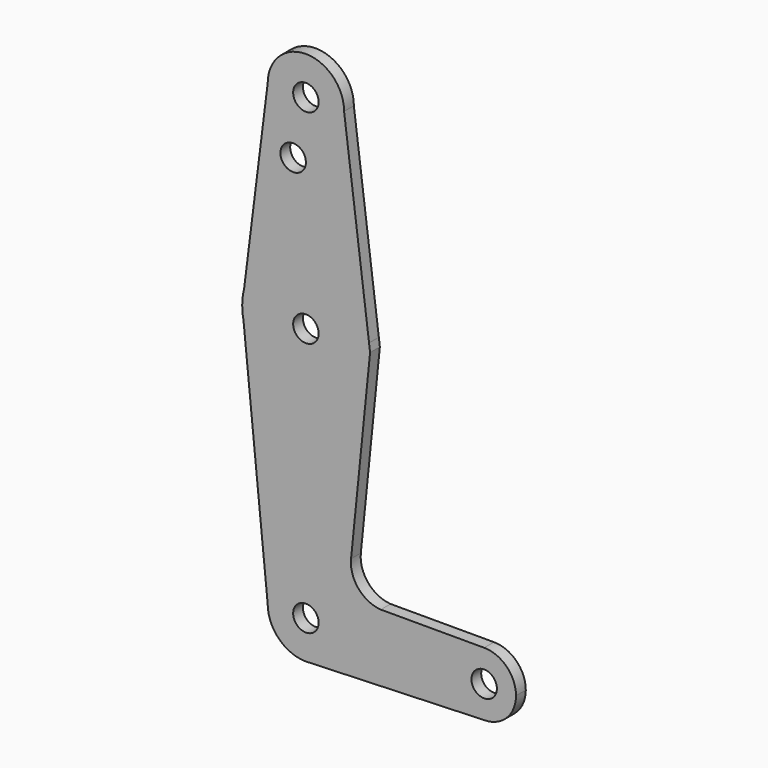
from build123d import *

# Parameters (mm, degrees)
F0_R     = 3.175
F1_DEPTH = 3.048


with BuildPart() as f1:
    # F0 (on Front) → F1 (new body)
    with BuildSketch(Plane.XZ):
        with BuildLine():
            ThreePointArc((-9.525, 114.3), (0, 104.775), (9.525, 114.3))
            ThreePointArc((9.525, 114.3), (0, 123.825), (-9.525, 114.3))
        make_face()
        with Locations((0, 114.3)):
            Circle(F0_R, mode=Mode.SUBTRACT)
        with BuildLine():
            Line((15.7474569259, 65.508289164), (9.525, 114.3))
            ThreePointArc((9.525, 114.3), (0, 104.775), (-9.525, 114.3))
            Line((-9.525, 114.3), (-15.3865384615, 67.4076923077))
            ThreePointArc((-15.3865384615, 67.4076923077), (0.966694683, 79.3455396371), (15.7474569259, 65.508289164))
        make_face()
        with Locations((-3.175, 100.0252)):
            Circle(F0_R, mode=Mode.SUBTRACT)
        with BuildLine():
            Line((16.0035761028, 63.5), (15.7474569259, 65.508289164))
            ThreePointArc((15.7474569259, 65.508289164), (15.8430821449, 64.5061675559), (15.875, 63.5))
            ThreePointArc((15.875, 63.5), (1.5796215395, 47.7037846054), (-15.5606435644, 60.3564356436))
            Line((-15.5606435644, 60.3564356436), (-9.525, 0))
            ThreePointArc((-9.525, 0), (0, 9.525), (9.525, 0))
            ThreePointArc((9.525, 0), (6.9712901065, -6.4905114784), (0.6794904459, -9.5007324841))
            Line((0.6794904459, -9.5007324841), (44.45, -7.9375))
            ThreePointArc((44.45, -7.9375), (36.5125, 0), (44.45, 7.9375))
            Line((44.45, 7.9375), (18.6819804858, 7.9375))
            ThreePointArc((18.6819804858, 7.9375), (13.1122739956, 10.7259458941), (11.2620301196, 16.673521744))
            Line((11.2620301196, 16.673521744), (16.0035761028, 63.5))
        make_face()
        with BuildLine():
            ThreePointArc((15.875, 63.5), (15.8430821449, 64.5061675559), (15.7474569259, 65.508289164))
            ThreePointArc((15.7474569259, 65.508289164), (0.966694683, 79.3455396371), (-15.3865384615, 67.4076923077))
            Line((-15.3865384615, 67.4076923077), (-15.875, 63.5))
            Line((-15.875, 63.5), (-15.5606435644, 60.3564356436))
            ThreePointArc((-15.5606435644, 60.3564356436), (1.5796215395, 47.7037846054), (15.875, 63.5))
        make_face()
        with Locations((0, 63.5)):
            Circle(F0_R, mode=Mode.SUBTRACT)
        with BuildLine():
            Line((-15.875, 63.5), (-15.3865384615, 67.4076923077))
            ThreePointArc((-15.3865384615, 67.4076923077), (-15.7524112928, 65.4690514116), (-15.875, 63.5))
        make_face()
        with BuildLine():
            Line((-15.5606435644, 60.3564356436), (-15.875, 63.5))
            ThreePointArc((-15.875, 63.5), (-15.7962153946, 61.9203784605), (-15.5606435644, 60.3564356436))
        make_face()
        with BuildLine():
            ThreePointArc((9.525, 0), (0, 9.525), (-9.525, 0))
            ThreePointArc((-9.525, 0), (-6.7351920908, -6.7351920908), (0, -9.525))
            Line((0, -9.525), (0.6794904459, -9.5007324841))
            ThreePointArc((0.6794904459, -9.5007324841), (6.9712901065, -6.4905114784), (9.525, 0))
        make_face()
        Circle(F0_R, mode=Mode.SUBTRACT)
        with BuildLine():
            Line((0.6794904459, -9.5007324841), (0, -9.525))
            ThreePointArc((0, -9.525), (0.3399618281, -9.5189311877), (0.6794904459, -9.5007324841))
        make_face()
        with BuildLine():
            ThreePointArc((52.3875, 0), (50.0626600757, 5.6126600757), (44.45, 7.9375))
            ThreePointArc((44.45, 7.9375), (36.5125, 0), (44.45, -7.9375))
            ThreePointArc((44.45, -7.9375), (50.0626600757, -5.6126600757), (52.3875, 0))
        make_face()
        with Locations((44.45, 0)):
            Circle(F0_R, mode=Mode.SUBTRACT)
    extrude(amount=F1_DEPTH)


solid = f1.part
